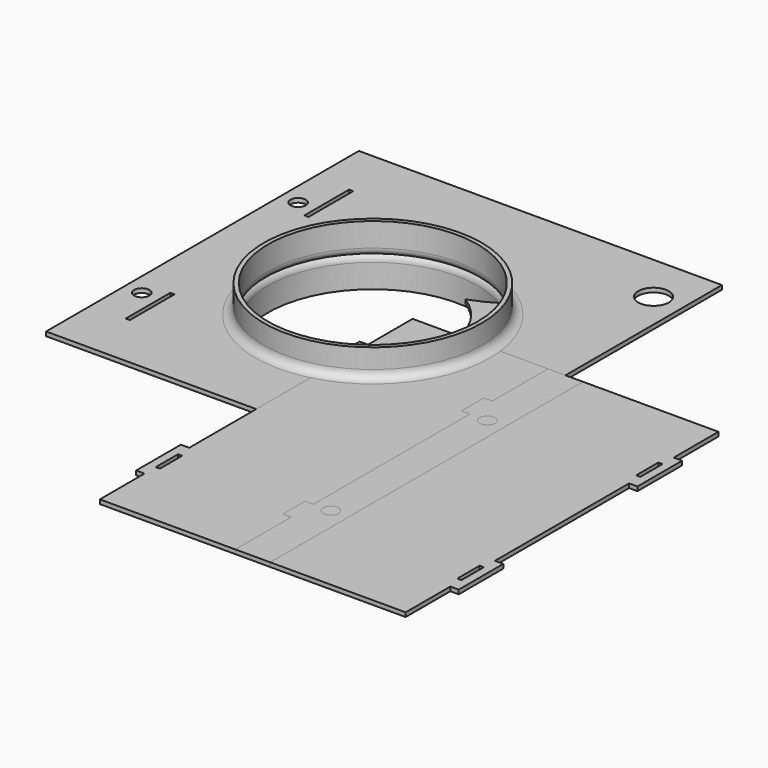
from build123d import *

# Parameters (mm, degrees)
SKETCH001_R     = 5.5
PAD_DEPTH       = 1.5
CHAMFER_SIZE    = 7.5
SKETCH002_R     = 5.5
PAD002_DEPTH    = 1.5
CHAMFER001_SIZE = 7.5
SKETCH003_W     = 130
SKETCH003_H     = 140
SKETCH003_R     = 5.5
SKETCH003_R_2   = 37.5
PAD003_DEPTH    = 1.5
SKETCH_R        = 39
SKETCH_R_2      = 37.5
PAD004_DEPTH    = 10
FILLET_R        = 3
FILLET001_R     = 3
SKETCH007_W     = 1.5
SKETCH007_H     = 20
POCKET001_DEPTH = 1.5
SKETCH011_R     = 2.75
HOLE001_DEPTH   = 11.501
SKETCH005_W     = 130
SKETCH005_H     = 140
SKETCH005_R     = 5.5
SKETCH005_R_2   = 37.5
PAD005_DEPTH    = 1.5
SKETCH004_R     = 39
SKETCH004_R_2   = 37.5
PAD006_DEPTH    = 10
FILLET002_R     = 3
FILLET003_R     = 3
SKETCH006_W     = 1.5
SKETCH006_H     = 20
POCKET_DEPTH    = 1.5
SKETCH012_R     = 2.75
HOLE002_DEPTH   = 1.501
SKETCH008_W     = 1.5
SKETCH008_H     = 10
PAD007_DEPTH    = 1.5
PAD008_DEPTH    = 1.5
SKETCH010_R     = 2.75
HOLE_DEPTH      = 1.501


with BuildPart() as obj1:
    # Sketch001 → Pad (new body)
    with BuildSketch(Plane.XY):
        with BuildLine():
            Line((0, 140), (-21, 140))
            Line((-21, 140), (-21, 130))
            ThreePointArc((-50.594467, 88.425), (-29.154195, 104.483764), (-21, 130))
            ThreePointArc((-38.5, 57.651531), (-39.405718, 75.058963), (-50.594467, 88.425))
            Line((-25, 57.651531), (-38.5, 57.651531))
            ThreePointArc((-21, 53.651531), (-22.171573, 56.479958), (-25, 57.651531))
            Line((-21, 53.651531), (-21, 41))
            Line((-21, 41), (-19.563261, 40.568978))
            Line((-19.563261, 40.568978), (-21, 35.779847))
            Line((-21, 35.779847), (-21, 0))
            Line((-21, 0), (0, 0))
            Line((0, 0), (0, 140))
        make_face()
        with Locations((-10.5, 12.5)):
            Circle(SKETCH001_R, mode=Mode.SUBTRACT)
        with Locations((-10.5, 122.5)):
            Circle(SKETCH001_R, mode=Mode.SUBTRACT)
    extrude(amount=PAD_DEPTH)

    # Chamfer
    chamfer_edges = [obj1.edges().sort_by_distance(p)[0] for p in [
        (-21, 140, 0.75),
    ]]
    chamfer(chamfer_edges, length=CHAMFER_SIZE)


with BuildPart() as obj2:
    # Sketch002 → Pad002 (new body)
    with BuildSketch(Plane.XY):
        with BuildLine():
            Line((0, 140), (-21, 140))
            Line((-21, 140), (-21, 130))
            ThreePointArc((-31.116106, 101.930769), (-23.606212, 115.081745), (-21, 130))
            ThreePointArc((-21, 41), (-15.556953, 73.208843), (-31.116106, 101.930769))
            Line((-21, 41), (-19.563261, 40.568978))
            Line((-19.563261, 40.568978), (-21, 35.779847))
            Line((-21, 35.779847), (-21, 0))
            Line((-21, 0), (0, 0))
            Line((0, 0), (0, 140))
        make_face()
        with Locations((-10.5, 12.5)):
            Circle(SKETCH002_R, mode=Mode.SUBTRACT)
        with Locations((-10.5, 122.5)):
            Circle(SKETCH002_R, mode=Mode.SUBTRACT)
    extrude(amount=PAD002_DEPTH)

    # Chamfer001
    chamfer001_edges = [obj2.edges().sort_by_distance(p)[0] for p in [
        (-21, 140, 0.75),
    ]]
    chamfer(chamfer001_edges, length=CHAMFER001_SIZE)


with BuildPart() as placacaja:
    # Sketch003 → Pad003 (new body)
    with BuildSketch(Plane.XY):
        with Locations((-65, 70)):
            Rectangle(SKETCH003_W, SKETCH003_H)
        with Locations((-10.5, 12.5)):
            Circle(SKETCH003_R, mode=Mode.SUBTRACT)
        with Locations((-10.5, 122.5)):
            Circle(SKETCH003_R, mode=Mode.SUBTRACT)
        with Locations((-65, 65)):
            Circle(SKETCH003_R_2, mode=Mode.SUBTRACT)
        Polygon((-21, 41), (-19.563261, 40.568978), (-21, 35.779847), (-22.436739, 36.210869), align=None, mode=Mode.SUBTRACT)
    extrude(amount=PAD003_DEPTH)

    # Sketch (on Face12 of Pad003) → Pad004 (join)
    with BuildSketch(Plane(origin=(0, 0, 0), x_dir=(1, 0, 0), z_dir=(0, 0, -1))):
        with Locations((-65, -65)):
            Circle(SKETCH_R)
        with Locations((-65, -65)):
            Circle(SKETCH_R_2, mode=Mode.SUBTRACT)
    extrude(amount=PAD004_DEPTH)

    # Fillet
    fillet_edges = [placacaja.edges().sort_by_distance(p)[0] for p in [
        (-104, 65, 0),
    ]]
    fillet(fillet_edges, radius=FILLET_R)

    # Fillet001
    fillet001_edges = [placacaja.edges().sort_by_distance(p)[0] for p in [
        (-102.5, 65, 1.5),
    ]]
    fillet(fillet001_edges, radius=FILLET001_R)

    # Sketch007 (on Face1 of Fillet001) → Pocket001 (cut)
    with BuildSketch(Plane.XY.offset(1.5)):
        with Locations((-116.75, 110)):
            Rectangle(SKETCH007_W, SKETCH007_H)
        with Locations((-116.75, 30)):
            Rectangle(SKETCH007_W, SKETCH007_H)
    extrude(amount=-POCKET001_DEPTH, mode=Mode.SUBTRACT)

    # Sketch011 (on Face1 of Pocket001) → Hole001 (cut, through all)
    with BuildSketch(Plane.XY.offset(1.5)):
        with Locations((-123.75, 105)):
            Circle(SKETCH011_R)
        with Locations((-123.75, 35)):
            Circle(SKETCH011_R)
    extrude(amount=-HOLE001_DEPTH, mode=Mode.SUBTRACT)


with BuildPart() as obj3:
    # Sketch005 → Pad005 (new body)
    with BuildSketch(Plane.XY):
        with Locations((-65, 70)):
            Rectangle(SKETCH005_W, SKETCH005_H)
        with Locations((-10.5, 12.5)):
            Circle(SKETCH005_R, mode=Mode.SUBTRACT)
        with Locations((-10.5, 122.5)):
            Circle(SKETCH005_R, mode=Mode.SUBTRACT)
        with Locations((-65, 65)):
            Circle(SKETCH005_R_2, mode=Mode.SUBTRACT)
        Polygon((-21, 41), (-19.563261, 40.568978), (-21, 35.779847), (-22.436739, 36.210869), align=None, mode=Mode.SUBTRACT)
    extrude(amount=PAD005_DEPTH)

    # Sketch004 (on Face13 of Pad005) → Pad006 (join)
    with BuildSketch(Plane.XY.offset(1.5)):
        with Locations((-65, 65)):
            Circle(SKETCH004_R)
        with Locations((-65, 65)):
            Circle(SKETCH004_R_2, mode=Mode.SUBTRACT)
    extrude(amount=PAD006_DEPTH)

    # Fillet002
    fillet002_edges = [obj3.edges().sort_by_distance(p)[0] for p in [
        (-102.5, 65, 0),
    ]]
    fillet(fillet002_edges, radius=FILLET002_R)

    # Fillet003
    fillet003_edges = [obj3.edges().sort_by_distance(p)[0] for p in [
        (-104, 65, 1.5),
    ]]
    fillet(fillet003_edges, radius=FILLET003_R)

    # Sketch006 (on Face1 of Fillet003) → Pocket (cut)
    with BuildSketch(Plane.XY.offset(1.5)):
        with Locations((-116.75, 110)):
            Rectangle(SKETCH006_W, SKETCH006_H)
        with Locations((-116.75, 30)):
            Rectangle(SKETCH006_W, SKETCH006_H)
    extrude(amount=-POCKET_DEPTH, mode=Mode.SUBTRACT)

    # Sketch012 (on Face1 of Pocket) → Hole002 (cut, through all)
    with BuildSketch(Plane.XY.offset(1.5)):
        with Locations((-123.75, 105)):
            Circle(SKETCH012_R)
        with Locations((-123.75, 35)):
            Circle(SKETCH012_R)
    extrude(amount=-HOLE002_DEPTH, mode=Mode.SUBTRACT)


with BuildPart() as obj4:
    # Sketch008 → Pad007 (new body)
    with BuildSketch(Plane.XY):
        Polygon((-54.75, 70), (54.75, 70), (54.75, 50), (57.75, 50), (57.75, 30), (54.75, 30.000018), (54.75, -30), (57.75, -30), (57.75, -50), (54.75, -50), (54.75, -70), (-54.75, -70), (-54.75, -50), (-57.75, -50), (-57.75, -30), (-54.75, -30), (-54.75, 30), (-57.75, 30), (-57.75, 50), (-54.75, 50), align=None)
        with Locations((-54, 40)):
            Rectangle(SKETCH008_W, SKETCH008_H, mode=Mode.SUBTRACT)
        with Locations((54, 40)):
            Rectangle(SKETCH008_W, SKETCH008_H, mode=Mode.SUBTRACT)
        with Locations((54, -40)):
            Rectangle(SKETCH008_W, SKETCH008_H, mode=Mode.SUBTRACT)
        with Locations((-54, -40)):
            Rectangle(SKETCH008_W, SKETCH008_H, mode=Mode.SUBTRACT)
    extrude(amount=PAD007_DEPTH)


with BuildPart() as placa_union:
    # Sketch009 → Pad008 (new body)
    with BuildSketch(Plane.XY):
        Polygon((-6.25, 70), (6.25, 70), (6.25, -70), (-6.25, -70), (-6.25, -45), (-9.25, -45), (-9.25, -35), (-6.25, -35), (-6.25, 35), (-9.25, 35), (-9.25, 45), (-6.25, 45), align=None)
    extrude(amount=PAD008_DEPTH)

    # Sketch010 (on Face14 of Pad008) → Hole (cut, through all)
    with BuildSketch(Plane.XY.offset(1.5)):
        with Locations((0, 35)):
            Circle(SKETCH010_R)
        with Locations((0, -35)):
            Circle(SKETCH010_R)
    extrude(amount=-HOLE_DEPTH, mode=Mode.SUBTRACT)


solid = Compound([obj1.part, obj2.part, placacaja.part, obj3.part, obj4.part, placa_union.part])
